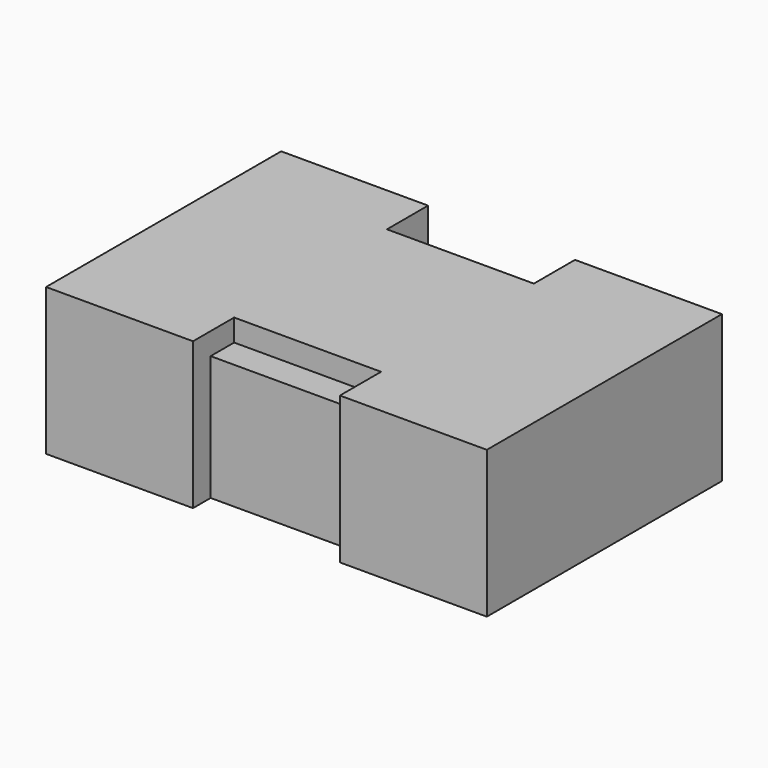
from build123d import *

# Parameters (mm, degrees)
PAD_DEPTH       = 10
SKETCH001_W     = 26
SKETCH001_H     = 16
POCKET_DEPTH    = 8
SKETCH002_W     = 10
SKETCH002_H     = 2
POCKET001_DEPTH = 1.5


with BuildPart() as part:
    # Sketch → Pad (new body)
    with BuildSketch(Plane.XY):
        Polygon((15, 10), (15, -10), (5, -10), (5, -8.5), (-5, -8.5), (-5, -10), (-15, -10), (-15, 10), (-5, 10), (-5, 8.5), (5, 8.5), (5, 10), align=None)
    extrude(amount=PAD_DEPTH)

    # Sketch001 (on Face13 of Pad) → Pocket (cut)
    with BuildSketch(Plane(origin=(0, 0, 0), x_dir=(1, 0, 0), z_dir=(0, 0, -1))):
        Rectangle(SKETCH001_W, SKETCH001_H)
    extrude(amount=-POCKET_DEPTH, mode=Mode.SUBTRACT)

    # Sketch002 (on Face5 of Pocket) → Pocket001 (cut)
    with BuildSketch(Plane.XY.offset(10)):
        with Locations((0, 7.5)):
            Rectangle(SKETCH002_W, SKETCH002_H)
        with Locations((0, -7.5)):
            Rectangle(SKETCH002_W, SKETCH002_H)
    extrude(amount=-POCKET001_DEPTH, mode=Mode.SUBTRACT)


solid = part.part
